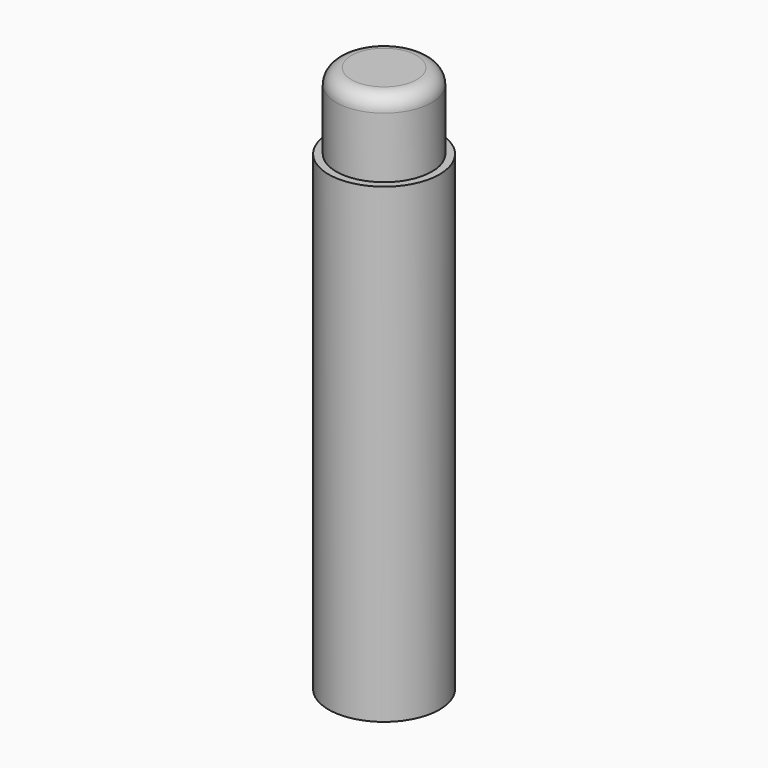
from build123d import *

# Parameters (mm, degrees)
SKETCH_R     = 3.65
PAD_DEPTH    = 31
SKETCH001_R  = 3.15
PAD001_DEPTH = 5
FILLET_R     = 1


with BuildPart() as part:
    # Sketch → Pad (new body)
    with BuildSketch(Plane.XY):
        Circle(SKETCH_R)
    extrude(amount=PAD_DEPTH)

    # Sketch001 (on Face3 of Pad) → Pad001 (join)
    with BuildSketch(Plane.XY.offset(31)):
        Circle(SKETCH001_R)
    extrude(amount=PAD001_DEPTH)

    # Fillet
    fillet_edges = [part.edges().sort_by_distance(p)[0] for p in [
        (-3.15, 0, 36),
    ]]
    fillet(fillet_edges, radius=FILLET_R)


solid = part.part
